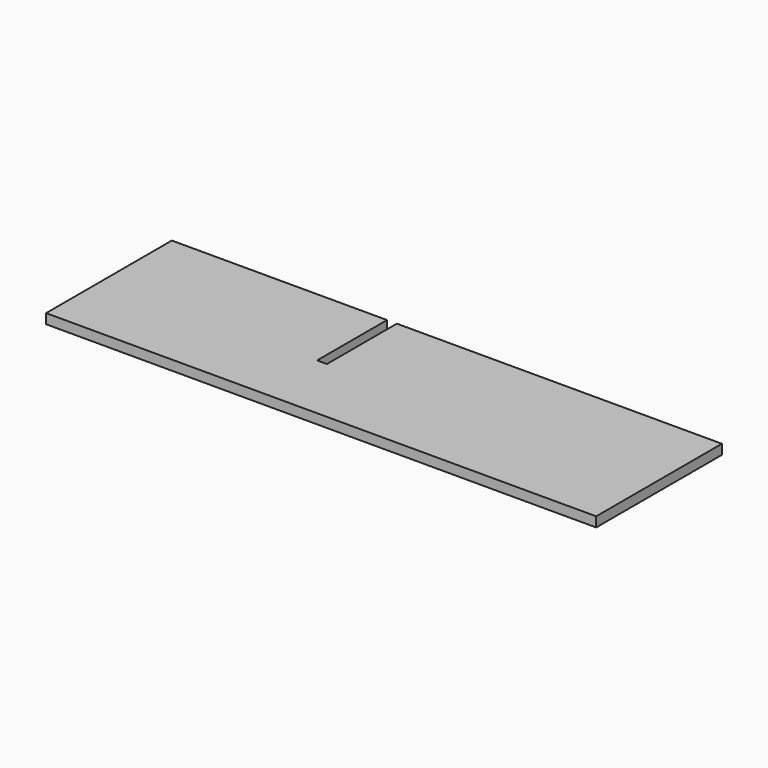
from build123d import *

# Parameters (mm, degrees)
F0_W     = 1066.8
F0_H     = 304.8
F1_DEPTH = 19.05
F2_W     = 238.627806
F2_H     = 230.778098
F3_DEPTH = 19.05


with BuildPart() as f1:
    # F0 (on Top) → F1 (new body)
    with BuildSketch(Plane.XY):
        with Locations((96.987572, 17.166717)):
            Rectangle(F0_W, F0_H)
    extrude(amount=F1_DEPTH)

    # F2 (on Right) → F3 (cut)
    with BuildSketch(Plane.YZ):
        with Locations((119.313903, 14.515564)):
            Rectangle(F2_W, F2_H)
    extrude(amount=-F3_DEPTH, mode=Mode.SUBTRACT)


solid = f1.part
